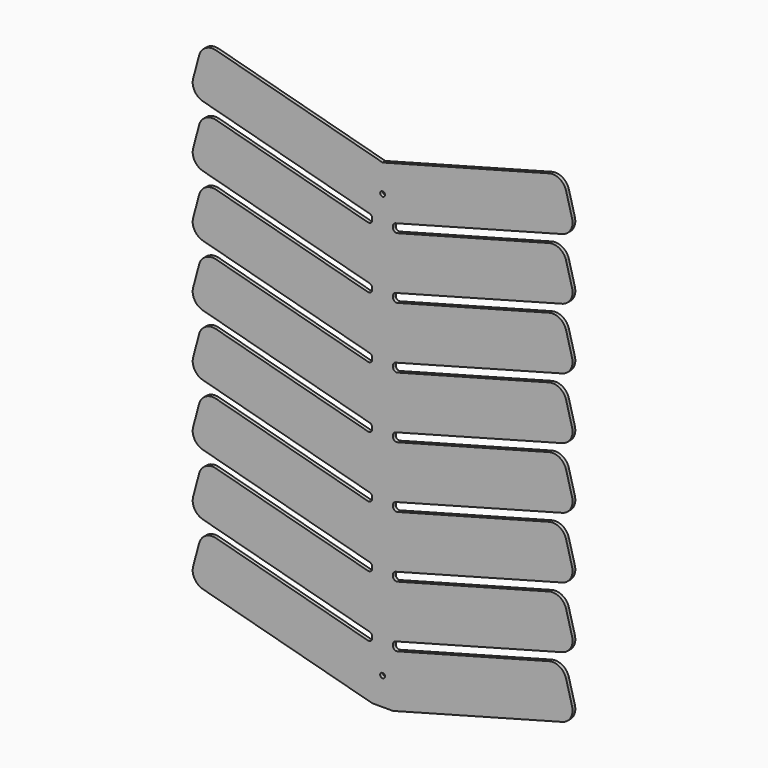
from build123d import *

# Parameters (mm, degrees)
F0_R     = 4.445
F1_DEPTH = 6.35


with BuildPart() as f1:
    # F0 (on Front) → F1 (new body)
    with BuildSketch(Plane.XZ):
        with BuildLine():
            Line((-19.05, 0), (0, 0))
            Line((0, 0), (19.05, 0))
            Line((19.05, 0), (329.55476, 83.1995))
            ThreePointArc((329.55476, 83.1995), (344.977801, 95.034016), (347.515272, 114.308019))
            Line((347.515272, 114.308019), (336.498634, 155.422674))
            ThreePointArc((336.498634, 155.422674), (324.664118, 170.845716), (305.390114, 173.383186))
            Line((305.390114, 173.383186), (27.043501, 98.800436))
            ThreePointArc((27.043501, 98.800436), (21.534365, 99.896271), (19.05, 104.934065))
            Line((19.05, 104.934065), (19.05, 107.662174))
            ThreePointArc((19.05, 107.662174), (20.362206, 111.527809), (23.756499, 113.795803))
            Line((23.756499, 113.795803), (329.55476, 195.7342))
            ThreePointArc((329.55476, 195.7342), (344.977801, 207.568716), (347.515272, 226.842719))
            Line((347.515272, 226.842719), (336.498634, 267.957374))
            ThreePointArc((336.498634, 267.957374), (324.664118, 283.380416), (305.390114, 285.917886))
            Line((305.390114, 285.917886), (27.043501, 211.335136))
            ThreePointArc((27.043501, 211.335136), (21.534365, 212.430971), (19.05, 217.468765))
            Line((19.05, 217.468765), (19.05, 220.196874))
            ThreePointArc((19.05, 220.196874), (20.362206, 224.062509), (23.756499, 226.330503))
            Line((23.756499, 226.330503), (329.55476, 308.2689))
            ThreePointArc((329.55476, 308.2689), (344.977801, 320.103416), (347.515272, 339.377419))
            Line((347.515272, 339.377419), (336.498634, 380.492074))
            ThreePointArc((336.498634, 380.492074), (324.664118, 395.915116), (305.390114, 398.452586))
            Line((305.390114, 398.452586), (27.043501, 323.869836))
            ThreePointArc((27.043501, 323.869836), (21.534365, 324.965671), (19.05, 330.003465))
            Line((19.05, 330.003465), (19.05, 332.731574))
            ThreePointArc((19.05, 332.731574), (20.362206, 336.597209), (23.756499, 338.865203))
            Line((23.756499, 338.865203), (329.55476, 420.8036))
            ThreePointArc((329.55476, 420.8036), (344.977801, 432.638116), (347.515272, 451.912119))
            Line((347.515272, 451.912119), (336.498634, 493.026774))
            ThreePointArc((336.498634, 493.026774), (324.664118, 508.449816), (305.390114, 510.987286))
            Line((305.390114, 510.987286), (27.043501, 436.404536))
            ThreePointArc((27.043501, 436.404536), (21.534365, 437.500371), (19.05, 442.538165))
            Line((19.05, 442.538165), (19.05, 445.266274))
            ThreePointArc((19.05, 445.266274), (20.362206, 449.131909), (23.756499, 451.399903))
            Line((23.756499, 451.399903), (329.55476, 533.3383))
            ThreePointArc((329.55476, 533.3383), (344.977801, 545.172816), (347.515272, 564.446819))
            Line((347.515272, 564.446819), (336.498634, 605.561474))
            ThreePointArc((336.498634, 605.561474), (324.664118, 620.984516), (305.390114, 623.521986))
            Line((305.390114, 623.521986), (27.043501, 548.939236))
            ThreePointArc((27.043501, 548.939236), (21.534365, 550.035071), (19.05, 555.072865))
            Line((19.05, 555.072865), (19.05, 557.800974))
            ThreePointArc((19.05, 557.800974), (20.362206, 561.666609), (23.756499, 563.934603))
            Line((23.756499, 563.934603), (329.55476, 645.873))
            ThreePointArc((329.55476, 645.873), (344.977801, 657.707516), (347.515272, 676.981519))
            Line((347.515272, 676.981519), (336.498634, 718.096174))
            ThreePointArc((336.498634, 718.096174), (324.664118, 733.519216), (305.390114, 736.056686))
            Line((305.390114, 736.056686), (27.043501, 661.473936))
            ThreePointArc((27.043501, 661.473936), (21.534365, 662.569771), (19.05, 667.607565))
            Line((19.05, 667.607565), (19.05, 670.335674))
            ThreePointArc((19.05, 670.335674), (20.362206, 674.201309), (23.756499, 676.469303))
            Line((23.756499, 676.469303), (329.55476, 758.4077))
            ThreePointArc((329.55476, 758.4077), (344.977801, 770.242216), (347.515272, 789.516219))
            Line((347.515272, 789.516219), (336.498634, 830.630874))
            ThreePointArc((336.498634, 830.630874), (324.664118, 846.053916), (305.390114, 848.591386))
            Line((305.390114, 848.591386), (27.043501, 774.008636))
            ThreePointArc((27.043501, 774.008636), (21.534365, 775.104471), (19.05, 780.142265))
            Line((19.05, 780.142265), (19.05, 782.870374))
            ThreePointArc((19.05, 782.870374), (20.362206, 786.736009), (23.756499, 789.004003))
            Line((23.756499, 789.004003), (329.55476, 870.9424))
            ThreePointArc((329.55476, 870.9424), (344.977801, 882.776916), (347.515272, 902.050919))
            Line((347.515272, 902.050919), (336.498634, 943.165574))
            ThreePointArc((336.498634, 943.165574), (324.664118, 958.588616), (305.390114, 961.126086))
            Line((305.390114, 961.126086), (0, 879.297052))
            Line((0, 879.297052), (-305.390114, 961.126086))
            ThreePointArc((-305.390114, 961.126086), (-324.664118, 958.588616), (-336.498634, 943.165574))
            Line((-336.498634, 943.165574), (-347.515272, 902.050919))
            ThreePointArc((-347.515272, 902.050919), (-344.977801, 882.776916), (-329.55476, 870.9424))
            Line((-329.55476, 870.9424), (-23.756499, 789.004003))
            ThreePointArc((-23.756499, 789.004003), (-20.362206, 786.736009), (-19.05, 782.870374))
            Line((-19.05, 782.870374), (-19.05, 780.142265))
            ThreePointArc((-19.05, 780.142265), (-21.534365, 775.104471), (-27.043501, 774.008636))
            Line((-27.043501, 774.008636), (-305.390114, 848.591386))
            ThreePointArc((-305.390114, 848.591386), (-324.664118, 846.053916), (-336.498634, 830.630874))
            Line((-336.498634, 830.630874), (-347.515272, 789.516219))
            ThreePointArc((-347.515272, 789.516219), (-344.977801, 770.242216), (-329.55476, 758.4077))
            Line((-329.55476, 758.4077), (-23.756499, 676.469303))
            ThreePointArc((-23.756499, 676.469303), (-20.362206, 674.201309), (-19.05, 670.335674))
            Line((-19.05, 670.335674), (-19.05, 667.607565))
            ThreePointArc((-19.05, 667.607565), (-21.534365, 662.569771), (-27.043501, 661.473936))
            Line((-27.043501, 661.473936), (-305.390114, 736.056686))
            ThreePointArc((-305.390114, 736.056686), (-324.664118, 733.519216), (-336.498634, 718.096174))
            Line((-336.498634, 718.096174), (-347.515272, 676.981519))
            ThreePointArc((-347.515272, 676.981519), (-344.977801, 657.707516), (-329.55476, 645.873))
            Line((-329.55476, 645.873), (-23.756499, 563.934603))
            ThreePointArc((-23.756499, 563.934603), (-20.362206, 561.666609), (-19.05, 557.800974))
            Line((-19.05, 557.800974), (-19.05, 555.072865))
            ThreePointArc((-19.05, 555.072865), (-21.534365, 550.035071), (-27.043501, 548.939236))
            Line((-27.043501, 548.939236), (-305.390114, 623.521986))
            ThreePointArc((-305.390114, 623.521986), (-324.664118, 620.984516), (-336.498634, 605.561474))
            Line((-336.498634, 605.561474), (-347.515272, 564.446819))
            ThreePointArc((-347.515272, 564.446819), (-344.977801, 545.172816), (-329.55476, 533.3383))
            Line((-329.55476, 533.3383), (-23.756499, 451.399903))
            ThreePointArc((-23.756499, 451.399903), (-20.362206, 449.131909), (-19.05, 445.266274))
            Line((-19.05, 445.266274), (-19.05, 442.538165))
            ThreePointArc((-19.05, 442.538165), (-21.534365, 437.500371), (-27.043501, 436.404536))
            Line((-27.043501, 436.404536), (-305.390114, 510.987286))
            ThreePointArc((-305.390114, 510.987286), (-324.664118, 508.449816), (-336.498634, 493.026774))
            Line((-336.498634, 493.026774), (-347.515272, 451.912119))
            ThreePointArc((-347.515272, 451.912119), (-344.977801, 432.638116), (-329.55476, 420.8036))
            Line((-329.55476, 420.8036), (-23.756499, 338.865203))
            ThreePointArc((-23.756499, 338.865203), (-20.362206, 336.597209), (-19.05, 332.731574))
            Line((-19.05, 332.731574), (-19.05, 330.003465))
            ThreePointArc((-19.05, 330.003465), (-21.534365, 324.965671), (-27.043501, 323.869836))
            Line((-27.043501, 323.869836), (-305.390114, 398.452586))
            ThreePointArc((-305.390114, 398.452586), (-324.664118, 395.915116), (-336.498634, 380.492074))
            Line((-336.498634, 380.492074), (-347.515272, 339.377419))
            ThreePointArc((-347.515272, 339.377419), (-344.977801, 320.103416), (-329.55476, 308.2689))
            Line((-329.55476, 308.2689), (-23.756499, 226.330503))
            ThreePointArc((-23.756499, 226.330503), (-20.362206, 224.062509), (-19.05, 220.196874))
            Line((-19.05, 220.196874), (-19.05, 217.468765))
            ThreePointArc((-19.05, 217.468765), (-21.534365, 212.430971), (-27.043501, 211.335136))
            Line((-27.043501, 211.335136), (-305.390114, 285.917886))
            ThreePointArc((-305.390114, 285.917886), (-324.664118, 283.380416), (-336.498634, 267.957374))
            Line((-336.498634, 267.957374), (-347.515272, 226.842719))
            ThreePointArc((-347.515272, 226.842719), (-344.977801, 207.568716), (-329.55476, 195.7342))
            Line((-329.55476, 195.7342), (-23.756499, 113.795803))
            ThreePointArc((-23.756499, 113.795803), (-20.362206, 111.527809), (-19.05, 107.662174))
            Line((-19.05, 107.662174), (-19.05, 104.934065))
            ThreePointArc((-19.05, 104.934065), (-21.534365, 99.896271), (-27.043501, 98.800436))
            Line((-27.043501, 98.800436), (-305.390114, 173.383186))
            ThreePointArc((-305.390114, 173.383186), (-324.664118, 170.845716), (-336.498634, 155.422674))
            Line((-336.498634, 155.422674), (-347.515272, 114.308019))
            ThreePointArc((-347.515272, 114.308019), (-344.977801, 95.034016), (-329.55476, 83.1995))
            Line((-329.55476, 83.1995), (-19.05, 0))
        make_face()
        with Locations((0, 50.8)):
            Circle(F0_R, mode=Mode.SUBTRACT)
        with Locations((0, 828.497052)):
            Circle(F0_R, mode=Mode.SUBTRACT)
    extrude(amount=F1_DEPTH)


solid = f1.part
